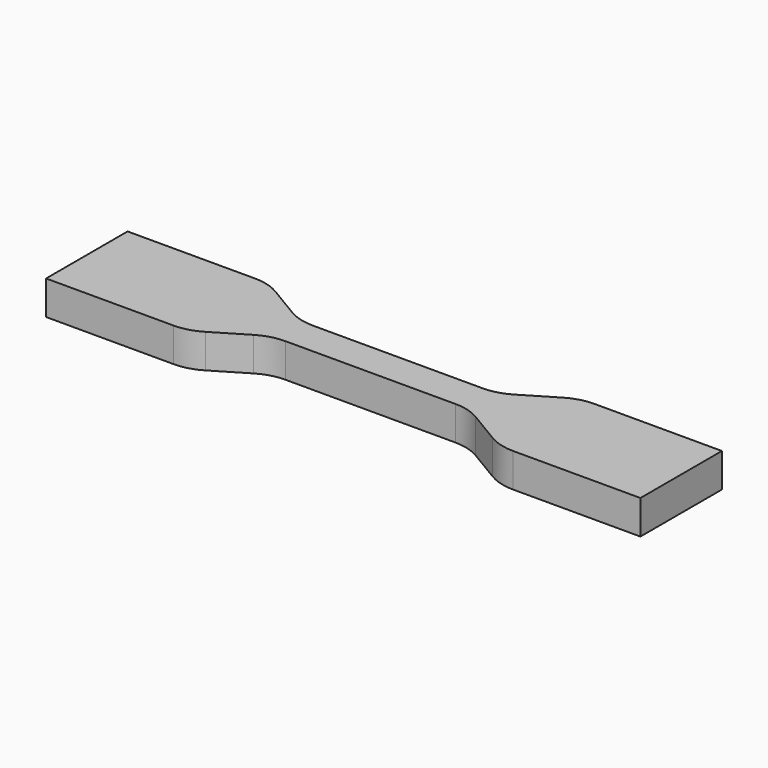
from build123d import *

# Parameters (mm, degrees)
F1_DEPTH = 2


with BuildPart() as f1:
    # F0 (on Top) → F1 (new body)
    with BuildSketch(Plane.XY):
        with BuildLine():
            Line((0, 1), (0, 0))
            Line((0, 0), (17.5, 0))
            Line((17.5, 0), (17.5, 3))
            Line((17.5, 3), (10, 3))
            ThreePointArc((10, 3), (9.200786, 2.891584), (8.459337, 2.574171))
            Line((8.459337, 2.574171), (6.540663, 1.425829))
            ThreePointArc((6.540663, 1.425829), (5.799214, 1.108416), (5, 1))
            Line((5, 1), (0, 1))
        make_face()
    extrude(amount=F1_DEPTH)

    # F2: F1 across face


with BuildPart() as f1_1:
    add(f1.part)
    add(f1.part.mirror(Plane(origin=(8.75, 0, 1), x_dir=(1, 0, 0), z_dir=(0, -1, 0))))

    # F3: F1 across face


with BuildPart() as f1_2:
    add(f1_1.part)
    add(f1_1.part.mirror(Plane(origin=(0, 0, 1), x_dir=(0, -1, 0), z_dir=(-1, 0, 0))))


solid = f1_2.part
